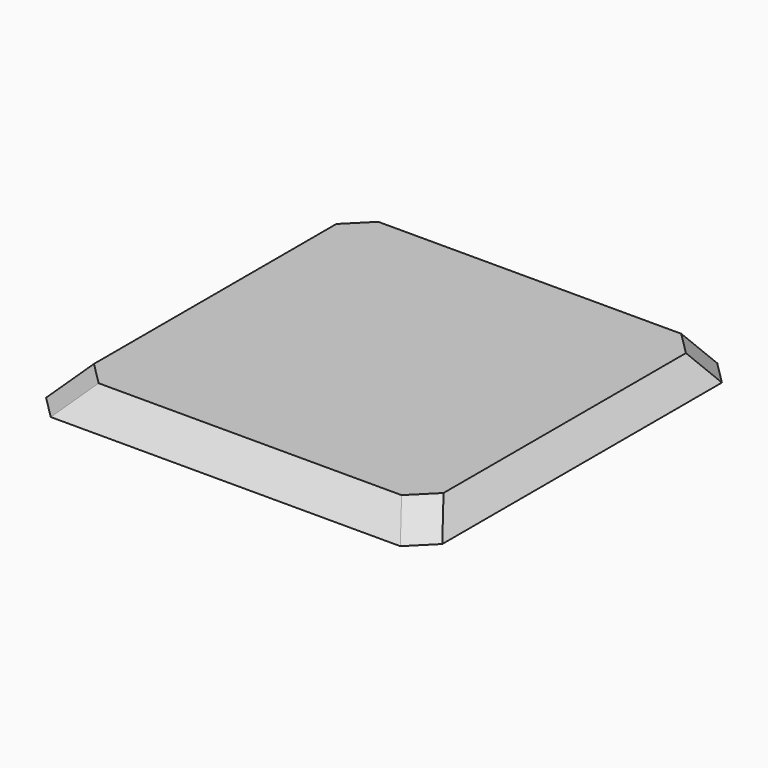
from build123d import *


with BuildPart() as f3:
    # F0 (on Top) → F3 section 0
    with BuildSketch(Plane.XY):
        Polygon((38.1, 43.18), (-38.1, 43.18), (-43.18, 38.1), (-43.18, -38.1), (-38.1, -43.18), (38.1, -43.18), (43.18, -38.1), (43.18, 38.1), align=None)
    # F2 (on offset) → F3 section 1
    with BuildSketch(Plane.XY.offset(5.08)):
        Polygon((-33.4306955338, 40.2305973589), (-38.5106955338, 35.1505973589), (-38.5106955338, -30.8894026411), (-33.4306955338, -35.9694026411), (32.6093044662, -35.9694026411), (37.6893044662, -30.8894026411), (37.6893044662, 35.1505973589), (32.6093044662, 40.2305973589), align=None)
    loft()


solid = f3.part
